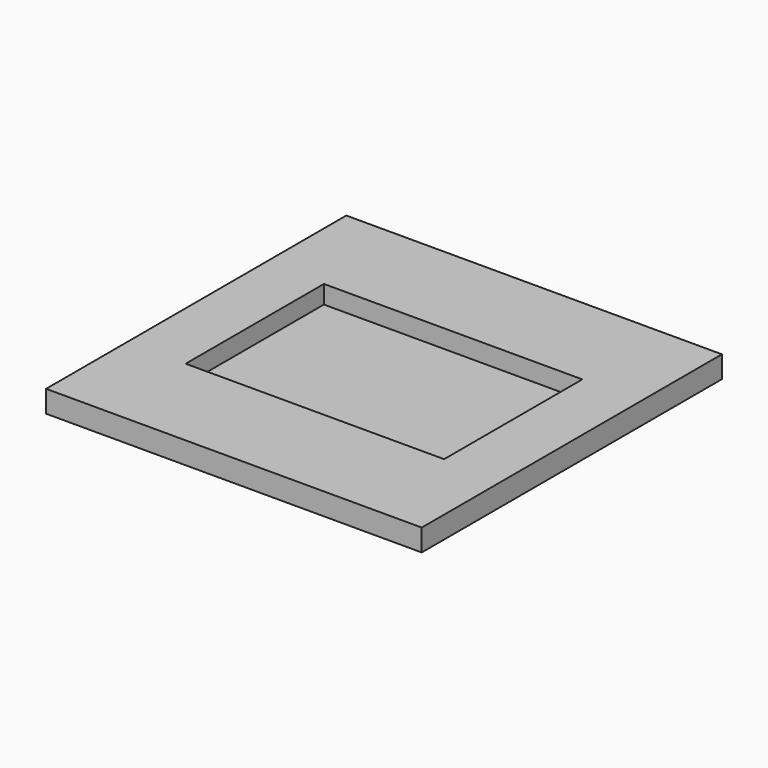
from build123d import *

# Parameters (mm, degrees)
F0_W     = 50
F0_H     = 49.95
F0_W_2   = 34.4
F0_H_2   = 23
F1_DEPTH = 2.92
F2_DEPTH = 0.5


with BuildPart() as f1:
    # F0 (on Top) → F1 (new body)
    with BuildSketch(Plane.XY):
        with Locations((25, 24.975)):
            Rectangle(F0_W, F0_H)
        with Locations((25, 24.975)):
            Rectangle(F0_W_2, F0_H_2, mode=Mode.SUBTRACT)
    extrude(amount=F1_DEPTH)


with BuildPart() as f2:
    # F0 (on Top) → F2 (new body)
    with BuildSketch(Plane.XY):
        with Locations((25, 24.975)):
            Rectangle(F0_W_2, F0_H_2)
    extrude(amount=F2_DEPTH)


solid = Compound([f1.part, f2.part])
